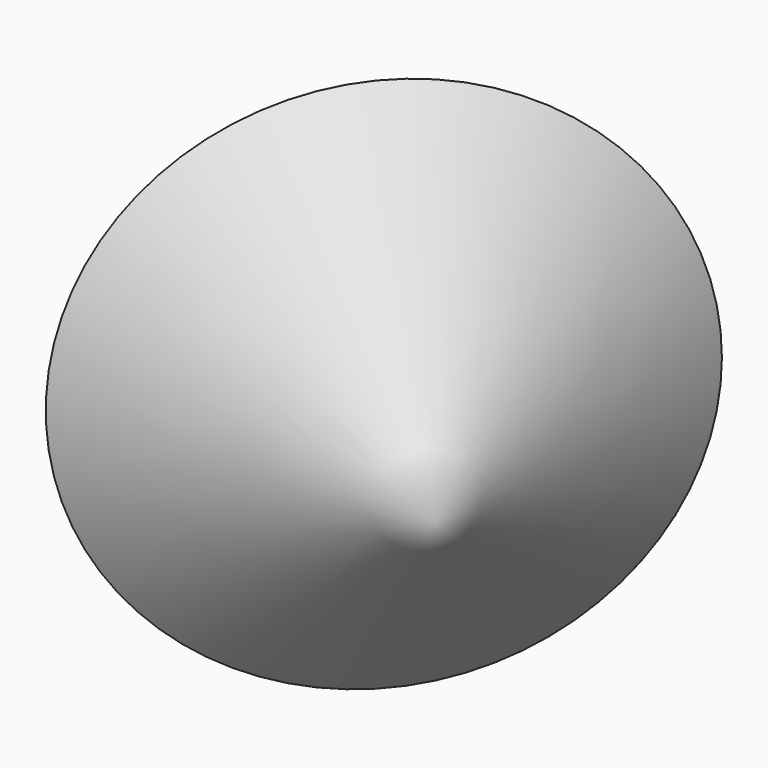
from build123d import *


with BuildPart() as f1:
    # F0 (on Top) → F1 (revolve)
    with BuildSketch(Plane.XY):
        Polygon((36.5600176156, 29.0655326098), (0, 0), (36.5600176156, -32.5478240848), align=None)
    revolve(axis=Axis((18.2800088078, -16.2739120424, 0), (0.7469015754, -0.6649346108, 0)))


solid = f1.part
